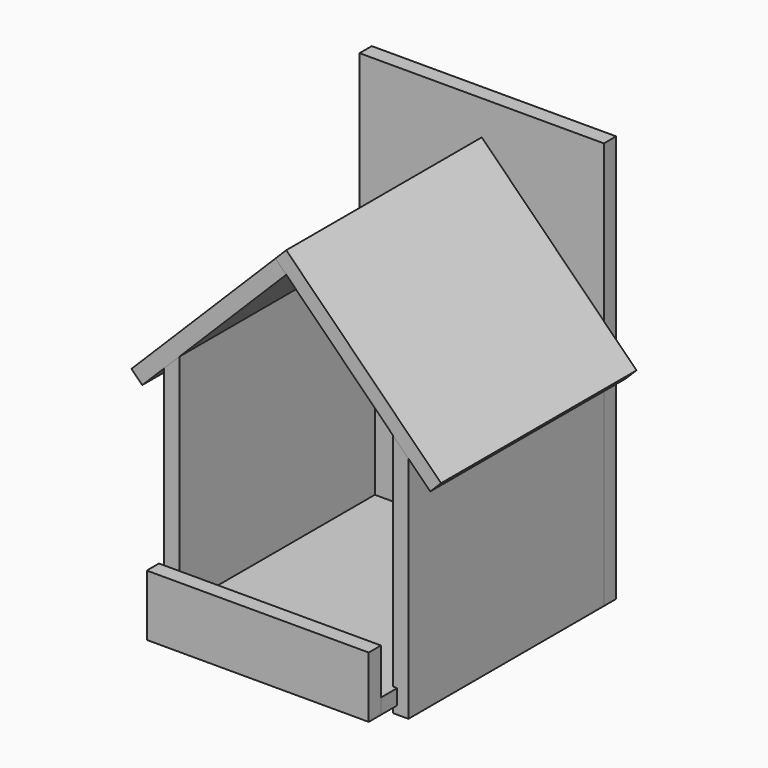
from build123d import *

# Parameters (mm, degrees)
F1_DEPTH  = 152.4
F2_W      = 138.43
F2_H      = 9.525
F3_DEPTH  = 165.1
F5_DEPTH  = 152.4
F7_DEPTH  = 152.4
F8_W      = 138.43
F8_H      = 38.1
F9_DEPTH  = 9.525
F10_W     = 152.4
F10_H     = 254
F11_DEPTH = 9.525


with BuildPart() as f1:
    # F0 (on Front) → F1 (new body)
    with BuildSketch(Plane.XZ):
        Polygon((0, -147.32), (0, -152.4), (9.525, -152.4), (9.525, -9.525), (0, 0), (0, -137.795), (2.54, -137.795), (2.54, -147.32), align=None)
        Polygon((-133.35, -152.4), (-133.35, -147.32), (-135.89, -147.32), (-135.89, -137.795), (-133.35, -137.795), (-133.35, 0), (-142.875, -9.525), (-142.875, -152.4), align=None)
    extrude(amount=F1_DEPTH)


with BuildPart() as f3:
    # F2 (on Front) → F3 (new body)
    with BuildSketch(Plane.XZ):
        with Locations((-66.675, -142.5575)):
            Rectangle(F2_W, F2_H)
    extrude(amount=F3_DEPTH)


with BuildPart() as f5:
    # F4 (on Front) → F5 (new body)
    with BuildSketch(Plane.XZ):
        Polygon((-163.212753, -16.392369), (-156.477561, -23.127561), (-66.675, 66.675), (-73.410192, 73.410192), align=None)
    extrude(amount=F5_DEPTH)


with BuildPart() as f7:
    # F6 (on Front) → F7 (new body)
    with BuildSketch(Plane.XZ):
        Polygon((-66.675, 80.145384), (-73.410192, 73.410192), (23.127561, -23.127561), (29.862753, -16.392369), align=None)
    extrude(amount=F7_DEPTH)


with BuildPart() as f9:
    # F8 (on face) → F9 (new body)
    with BuildSketch(Plane.XZ.offset(165.1)):
        with Locations((-66.675, -128.27)):
            Rectangle(F8_W, F8_H)
    extrude(amount=F9_DEPTH)


with BuildPart() as f11:
    # F10 (on Front) → F11 (new body)
    with BuildSketch(Plane.XZ):
        with Locations((-66.675, -25.4)):
            Rectangle(F10_W, F10_H)
    extrude(amount=-F11_DEPTH)


solid = Compound([f1.part, f3.part, f5.part, f7.part, f9.part, f11.part])
